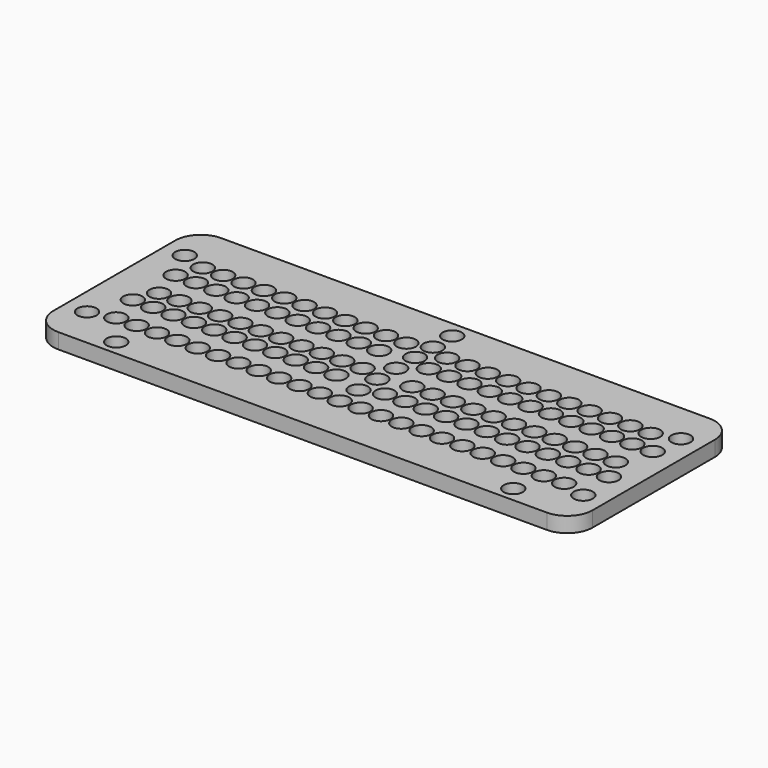
from build123d import *

# Parameters (mm, degrees)
F0_R     = 1.875
F1_DEPTH = 3


with BuildPart() as f1:
    # F0 (on Top) → F1 (new body)
    with BuildSketch(Plane.XY):
        with BuildLine():
            Line((-48, -20), (48, -20))
            ThreePointArc((48, -20), (51.535534, -18.535534), (53, -15))
            Line((53, -15), (53, 15))
            ThreePointArc((53, 15), (51.535534, 18.535534), (48, 20))
            Line((48, 20), (-48, 20))
            ThreePointArc((-48, 20), (-51.535534, 18.535534), (-53, 15))
            Line((-53, 15), (-53, -15))
            ThreePointArc((-53, -15), (-51.535534, -18.535534), (-48, -20))
        make_face()
        with Locations((-39, -17)):
            Circle(F0_R, mode=Mode.SUBTRACT)
        with Locations((-48.75, -12)):
            Circle(F0_R, mode=Mode.SUBTRACT)
        with Locations((-44, -10.75)):
            Circle(F0_R, mode=Mode.SUBTRACT)
        with Locations((-40, -10.75)):
            Circle(F0_R, mode=Mode.SUBTRACT)
        with Locations((-36, -10.75)):
            Circle(F0_R, mode=Mode.SUBTRACT)
        with Locations((-32, -10.75)):
            Circle(F0_R, mode=Mode.SUBTRACT)
        with Locations((-28, -10.75)):
            Circle(F0_R, mode=Mode.SUBTRACT)
        with Locations((-24, -10.75)):
            Circle(F0_R, mode=Mode.SUBTRACT)
        with Locations((-20, -10.75)):
            Circle(F0_R, mode=Mode.SUBTRACT)
        with Locations((-16, -10.75)):
            Circle(F0_R, mode=Mode.SUBTRACT)
        with Locations((-12, -10.75)):
            Circle(F0_R, mode=Mode.SUBTRACT)
        with Locations((-8, -10.75)):
            Circle(F0_R, mode=Mode.SUBTRACT)
        with Locations((-4, -10.75)):
            Circle(F0_R, mode=Mode.SUBTRACT)
        with Locations((-45.75, -4.5)):
            Circle(F0_R, mode=Mode.SUBTRACT)
        with Locations((-41.75, -4.5)):
            Circle(F0_R, mode=Mode.SUBTRACT)
        with Locations((-44, -0.25)):
            Circle(F0_R, mode=Mode.SUBTRACT)
        with Locations((-40, -0.25)):
            Circle(F0_R, mode=Mode.SUBTRACT)
        with Locations((-37.75, -4.5)):
            Circle(F0_R, mode=Mode.SUBTRACT)
        with Locations((-33.75, -4.5)):
            Circle(F0_R, mode=Mode.SUBTRACT)
        with Locations((-29.75, -4.5)):
            Circle(F0_R, mode=Mode.SUBTRACT)
        with Locations((-36, -0.25)):
            Circle(F0_R, mode=Mode.SUBTRACT)
        with Locations((-32, -0.25)):
            Circle(F0_R, mode=Mode.SUBTRACT)
        with Locations((-28, -0.25)):
            Circle(F0_R, mode=Mode.SUBTRACT)
        with Locations((-25.75, -4.5)):
            Circle(F0_R, mode=Mode.SUBTRACT)
        with Locations((-21.75, -4.5)):
            Circle(F0_R, mode=Mode.SUBTRACT)
        with Locations((-17.75, -4.5)):
            Circle(F0_R, mode=Mode.SUBTRACT)
        with Locations((-13.75, -4.5)):
            Circle(F0_R, mode=Mode.SUBTRACT)
        with Locations((-24, -0.25)):
            Circle(F0_R, mode=Mode.SUBTRACT)
        with Locations((-20, -0.25)):
            Circle(F0_R, mode=Mode.SUBTRACT)
        with Locations((-16, -0.25)):
            Circle(F0_R, mode=Mode.SUBTRACT)
        with Locations((-9.75, -4.5)):
            Circle(F0_R, mode=Mode.SUBTRACT)
        with Locations((-5.75, -4.5)):
            Circle(F0_R, mode=Mode.SUBTRACT)
        with Locations((-12, -0.25)):
            Circle(F0_R, mode=Mode.SUBTRACT)
        with Locations((-8, -0.25)):
            Circle(F0_R, mode=Mode.SUBTRACT)
        with Locations((-4, -0.25)):
            Circle(F0_R, mode=Mode.SUBTRACT)
        with Locations((0, -10.875)):
            Circle(F0_R, mode=Mode.SUBTRACT)
        with Locations((4, -10.75)):
            Circle(F0_R, mode=Mode.SUBTRACT)
        with Locations((8, -10.75)):
            Circle(F0_R, mode=Mode.SUBTRACT)
        with Locations((12, -10.75)):
            Circle(F0_R, mode=Mode.SUBTRACT)
        with Locations((16, -10.75)):
            Circle(F0_R, mode=Mode.SUBTRACT)
        with Locations((20, -10.75)):
            Circle(F0_R, mode=Mode.SUBTRACT)
        with Locations((24, -10.75)):
            Circle(F0_R, mode=Mode.SUBTRACT)
        with Locations((39, -17)):
            Circle(F0_R, mode=Mode.SUBTRACT)
        with Locations((28, -10.75)):
            Circle(F0_R, mode=Mode.SUBTRACT)
        with Locations((32, -10.75)):
            Circle(F0_R, mode=Mode.SUBTRACT)
        with Locations((36, -10.75)):
            Circle(F0_R, mode=Mode.SUBTRACT)
        with Locations((40, -10.75)):
            Circle(F0_R, mode=Mode.SUBTRACT)
        with Locations((44, -10.75)):
            Circle(F0_R, mode=Mode.SUBTRACT)
        with Locations((48.75, -12)):
            Circle(F0_R, mode=Mode.SUBTRACT)
        with Locations((0, -6.25)):
            Circle(F0_R, mode=Mode.SUBTRACT)
        with Locations((4, -4.75)):
            Circle(F0_R, mode=Mode.SUBTRACT)
        with Locations((8, -4.75)):
            Circle(F0_R, mode=Mode.SUBTRACT)
        with Locations((12, -4.75)):
            Circle(F0_R, mode=Mode.SUBTRACT)
        with Locations((0, -1.625)):
            Circle(F0_R, mode=Mode.SUBTRACT)
        with Locations((5.75, -0.25)):
            Circle(F0_R, mode=Mode.SUBTRACT)
        with Locations((9.75, -0.25)):
            Circle(F0_R, mode=Mode.SUBTRACT)
        with Locations((16, -4.75)):
            Circle(F0_R, mode=Mode.SUBTRACT)
        with Locations((20, -4.75)):
            Circle(F0_R, mode=Mode.SUBTRACT)
        with Locations((24, -4.75)):
            Circle(F0_R, mode=Mode.SUBTRACT)
        with Locations((13.75, -0.25)):
            Circle(F0_R, mode=Mode.SUBTRACT)
        with Locations((17.75, -0.25)):
            Circle(F0_R, mode=Mode.SUBTRACT)
        with Locations((21.75, -0.25)):
            Circle(F0_R, mode=Mode.SUBTRACT)
        with Locations((25.75, -0.25)):
            Circle(F0_R, mode=Mode.SUBTRACT)
        with Locations((28, -4.75)):
            Circle(F0_R, mode=Mode.SUBTRACT)
        with Locations((32, -4.75)):
            Circle(F0_R, mode=Mode.SUBTRACT)
        with Locations((36, -4.75)):
            Circle(F0_R, mode=Mode.SUBTRACT)
        with Locations((29.75, -0.25)):
            Circle(F0_R, mode=Mode.SUBTRACT)
        with Locations((33.75, -0.25)):
            Circle(F0_R, mode=Mode.SUBTRACT)
        with Locations((37.75, -0.25)):
            Circle(F0_R, mode=Mode.SUBTRACT)
        with Locations((40, -4.75)):
            Circle(F0_R, mode=Mode.SUBTRACT)
        with Locations((44, -4.75)):
            Circle(F0_R, mode=Mode.SUBTRACT)
        with Locations((48, -4.75)):
            Circle(F0_R, mode=Mode.SUBTRACT)
        with Locations((41.75, -0.25)):
            Circle(F0_R, mode=Mode.SUBTRACT)
        with Locations((45.75, -0.25)):
            Circle(F0_R, mode=Mode.SUBTRACT)
        with Locations((-45.75, 6)):
            Circle(F0_R, mode=Mode.SUBTRACT)
        with Locations((-41.75, 6)):
            Circle(F0_R, mode=Mode.SUBTRACT)
        with Locations((-37.75, 6)):
            Circle(F0_R, mode=Mode.SUBTRACT)
        with Locations((-33.75, 6)):
            Circle(F0_R, mode=Mode.SUBTRACT)
        with Locations((-29.75, 6)):
            Circle(F0_R, mode=Mode.SUBTRACT)
        with Locations((-25.75, 6)):
            Circle(F0_R, mode=Mode.SUBTRACT)
        with Locations((-21.75, 6)):
            Circle(F0_R, mode=Mode.SUBTRACT)
        with Locations((-17.75, 6)):
            Circle(F0_R, mode=Mode.SUBTRACT)
        with Locations((-13.75, 6)):
            Circle(F0_R, mode=Mode.SUBTRACT)
        with Locations((-9.75, 6)):
            Circle(F0_R, mode=Mode.SUBTRACT)
        with Locations((-5.75, 6)):
            Circle(F0_R, mode=Mode.SUBTRACT)
        with Locations((-48.75, 12)):
            Circle(F0_R, mode=Mode.SUBTRACT)
        with Locations((-44, 10.5)):
            Circle(F0_R, mode=Mode.SUBTRACT)
        with Locations((-40, 10.5)):
            Circle(F0_R, mode=Mode.SUBTRACT)
        with Locations((-36, 10.5)):
            Circle(F0_R, mode=Mode.SUBTRACT)
        with Locations((-32, 10.5)):
            Circle(F0_R, mode=Mode.SUBTRACT)
        with Locations((-28, 10.5)):
            Circle(F0_R, mode=Mode.SUBTRACT)
        with Locations((-24, 10.5)):
            Circle(F0_R, mode=Mode.SUBTRACT)
        with Locations((-20, 10.5)):
            Circle(F0_R, mode=Mode.SUBTRACT)
        with Locations((-16, 10.5)):
            Circle(F0_R, mode=Mode.SUBTRACT)
        with Locations((-12, 10.5)):
            Circle(F0_R, mode=Mode.SUBTRACT)
        with Locations((-8, 10.5)):
            Circle(F0_R, mode=Mode.SUBTRACT)
        with Locations((-4, 10.5)):
            Circle(F0_R, mode=Mode.SUBTRACT)
        with Locations((0, 3)):
            Circle(F0_R, mode=Mode.SUBTRACT)
        with Locations((4, 6)):
            Circle(F0_R, mode=Mode.SUBTRACT)
        with Locations((8, 6)):
            Circle(F0_R, mode=Mode.SUBTRACT)
        with Locations((12, 6)):
            Circle(F0_R, mode=Mode.SUBTRACT)
        with Locations((0, 7.625)):
            Circle(F0_R, mode=Mode.SUBTRACT)
        with Locations((16, 6)):
            Circle(F0_R, mode=Mode.SUBTRACT)
        with Locations((20, 6)):
            Circle(F0_R, mode=Mode.SUBTRACT)
        with Locations((24, 6)):
            Circle(F0_R, mode=Mode.SUBTRACT)
        with Locations((28, 6)):
            Circle(F0_R, mode=Mode.SUBTRACT)
        with Locations((32, 6)):
            Circle(F0_R, mode=Mode.SUBTRACT)
        with Locations((36, 6)):
            Circle(F0_R, mode=Mode.SUBTRACT)
        with Locations((40, 6)):
            Circle(F0_R, mode=Mode.SUBTRACT)
        with Locations((44, 6)):
            Circle(F0_R, mode=Mode.SUBTRACT)
        with Locations((48, 6)):
            Circle(F0_R, mode=Mode.SUBTRACT)
        with Locations((4, 10.5)):
            Circle(F0_R, mode=Mode.SUBTRACT)
        with Locations((0, 12)):
            Circle(F0_R, mode=Mode.SUBTRACT)
        with Locations((8, 10.5)):
            Circle(F0_R, mode=Mode.SUBTRACT)
        with Locations((12, 10.5)):
            Circle(F0_R, mode=Mode.SUBTRACT)
        with Locations((16, 10.5)):
            Circle(F0_R, mode=Mode.SUBTRACT)
        with Locations((20, 10.5)):
            Circle(F0_R, mode=Mode.SUBTRACT)
        with Locations((24, 10.5)):
            Circle(F0_R, mode=Mode.SUBTRACT)
        with Locations((0, 16.75)):
            Circle(F0_R, mode=Mode.SUBTRACT)
        with Locations((28, 10.5)):
            Circle(F0_R, mode=Mode.SUBTRACT)
        with Locations((32, 10.5)):
            Circle(F0_R, mode=Mode.SUBTRACT)
        with Locations((36, 10.5)):
            Circle(F0_R, mode=Mode.SUBTRACT)
        with Locations((40, 10.5)):
            Circle(F0_R, mode=Mode.SUBTRACT)
        with Locations((44, 10.5)):
            Circle(F0_R, mode=Mode.SUBTRACT)
        with Locations((48.75, 12)):
            Circle(F0_R, mode=Mode.SUBTRACT)
    extrude(amount=F1_DEPTH)


solid = f1.part
